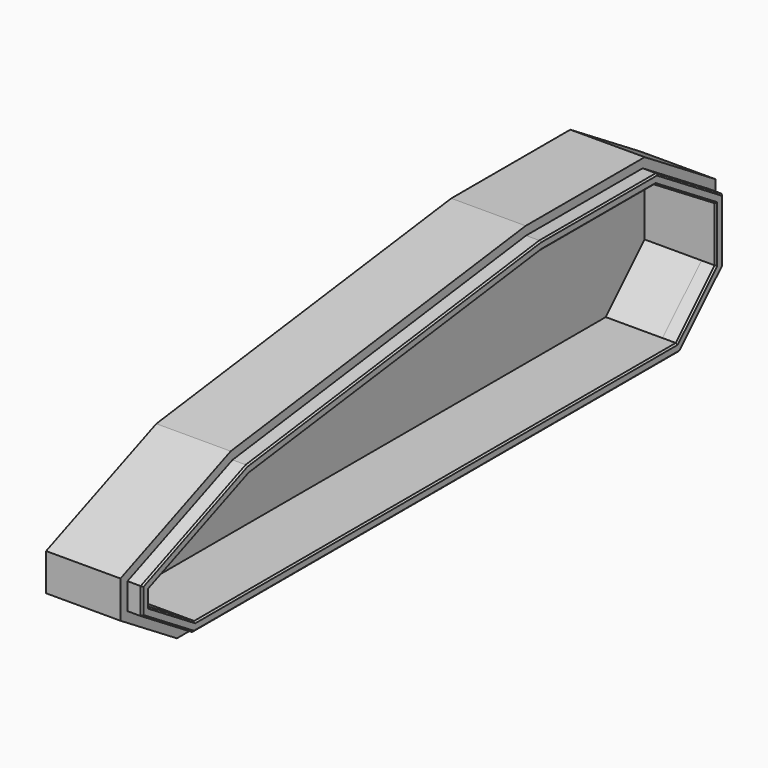
from build123d import *

# Parameters (mm, degrees)
PAD_DEPTH    = 25.4
THICKNESS_T  = -6
PAD001_DEPTH = 5
CHAMFER_SIZE = 0.5


with BuildPart() as part:
    # Sketch → Pad (new body)
    with BuildSketch(Plane.YZ):
        Polygon((-229.898747, 0), (-20.104522, 0), (0, 20.104522), (0, 44.580842), (-30.23, 63.5), (-81.03, 63.5), (-206.943497, 46.923174), (-254, 27.78354), (-254, 15.08354), align=None)
    extrude(amount=PAD_DEPTH)

    # Thickness
    thickness_openings = [part.faces().sort_by_distance(p)[0] for p in [
        (25.4, -116.810873, 28.186462),
    ]]
    offset(amount=THICKNESS_T, openings=thickness_openings, kind=Kind.INTERSECTION)

    # Sketch001 (on Face11 of Thickness) → Pad001 (join)
    with BuildSketch(Plane.YZ.offset(25.4)):
        Polygon((-251, 25.765092), (-206.170016, 43.999117), (-80.83337, 60.5), (-31.09137, 60.5), (-3, 42.919283), (-3, 21.347162), (-21.347162, 3), (-229.037377, 3), (-251, 16.745099), align=None)
        Polygon((-80.636739, 57.5), (-31.984579, 57.5), (-6, 41.257725), (-6, 22.589803), (-22.589803, 6), (-228.180649, 6), (-248, 18.406657), (-248, 23.746644), (-205.396535, 41.075061), align=None, mode=Mode.SUBTRACT)
    extrude(amount=PAD001_DEPTH)

    # Chamfer
    chamfer_edges = [part.edges().sort_by_distance(p)[0] for p in [
        (30.4, -228.585008, 34.882105),
        (30.4, -143.501693, 52.249559),
        (30.4, -55.96237, 60.5),
        (30.4, -17.045685, 51.709642),
        (30.4, -3, 32.133223),
        (30.4, -12.173581, 12.173581),
        (30.4, -125.19227, 3),
        (30.4, -240.018689, 9.872549),
        (30.4, -251, 21.255096),
        (30.4, -143.016637, 49.287531),
        (30.4, -226.698268, 32.410853),
        (30.4, -248, 21.076651),
        (30.4, -238.090325, 12.203329),
        (30.4, -125.385226, 6),
        (30.4, -14.294902, 14.294902),
        (30.4, -6, 31.923764),
        (30.4, -18.99229, 49.378862),
        (30.4, -56.310659, 57.5),
    ]]
    chamfer(chamfer_edges, length=CHAMFER_SIZE)


solid = part.part
